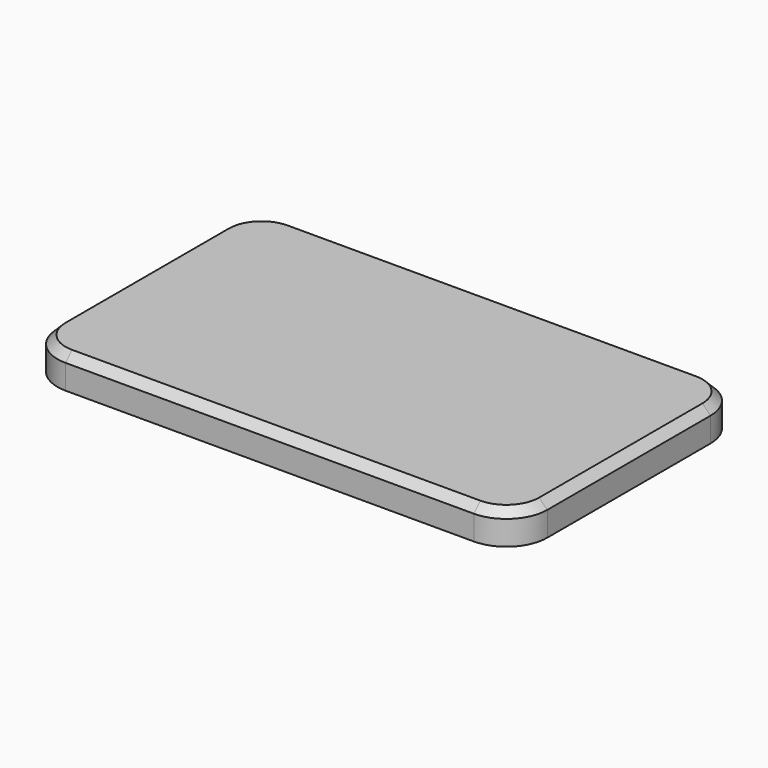
from build123d import *

# Parameters (mm, degrees)
F0_W     = 60
F0_H     = 35
F1_DEPTH = 4
F2_R     = 5
F3_SIZE  = 1


with BuildPart() as f1:
    # F0 (on Top) → F1 (new body)
    with BuildSketch(Plane.XY):
        Rectangle(F0_W, F0_H)
    extrude(amount=F1_DEPTH)

    # F2
    f2_edges = [f1.edges().sort_by_distance(p)[0] for p in [
        (-30, 17.5, 2),
        (-30, -17.5, 2),
        (30, -17.5, 2),
        (30, 17.5, 2),
    ]]
    fillet(f2_edges, radius=F2_R)

    # F3
    f3_edges = [f1.edges().sort_by_distance(p)[0] for p in [
        (0, 17.5, 4),
        (-30, 0, 4),
        (0, -17.5, 4),
        (30, 0, 4),
    ]]
    chamfer(f3_edges, length=F3_SIZE)


solid = f1.part
